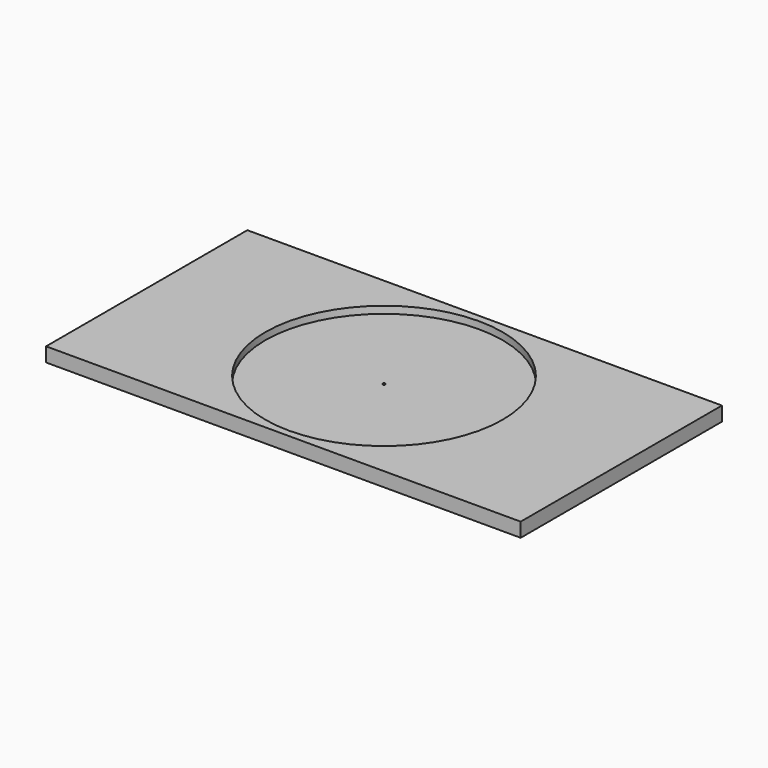
from build123d import *

# Parameters (mm, degrees)
F0_W      = 1000
F0_H      = 530
F1_DEPTH  = 30
F2_R      = 3
F3_DEPTH  = 12
F4_R      = 3
F5_DEPTH  = 12
F7_R      = 3
F8_DEPTH  = 12
F9_R      = 3
F10_DEPTH = 12
F6_R      = 250
F11_DEPTH = 15
F12_R     = 3
F13_DEPTH = 5
F14_R     = 3
F15_DEPTH = 12


with BuildPart() as f1:
    # F0 (on Top) → F1 (new body)
    with BuildSketch(Plane.XY):
        with Locations((500, 265)):
            Rectangle(F0_W, F0_H)
    extrude(amount=F1_DEPTH)

    # F2 (on face) → F3 (cut)
    with BuildSketch(Plane(origin=(0, 0, 0), x_dir=(1, 0, 0), z_dir=(0, 0, -1))):
        with Locations((985, -130)):
            Circle(F2_R)
    extrude(amount=-F3_DEPTH, mode=Mode.SUBTRACT)

    # F4 (on face) → F5 (cut)
    with BuildSketch(Plane(origin=(0, 0, 0), x_dir=(1, 0, 0), z_dir=(0, 0, -1))):
        with Locations((15, -130)):
            Circle(F4_R)
    extrude(amount=-F5_DEPTH, mode=Mode.SUBTRACT)

    # F7 (on face) → F8 (cut)
    with BuildSketch(Plane(origin=(0, 0, 0), x_dir=(1, 0, 0), z_dir=(0, 0, -1))):
        with Locations((985, -400)):
            Circle(F7_R)
    extrude(amount=-F8_DEPTH, mode=Mode.SUBTRACT)

    # F9 (on face) → F10 (cut)
    with BuildSketch(Plane(origin=(0, 0, 0), x_dir=(1, 0, 0), z_dir=(0, 0, -1))):
        with Locations((15, -400)):
            Circle(F9_R)
    extrude(amount=-F10_DEPTH, mode=Mode.SUBTRACT)

    # F6 (on face) → F11 (cut)
    with BuildSketch(Plane.XY.offset(30)):
        with Locations((500, 265)):
            Circle(F6_R)
    extrude(amount=-F11_DEPTH, mode=Mode.SUBTRACT)

    # F12 (on face) → F13 (cut)
    with BuildSketch(Plane.XY.offset(15)):
        with Locations((500, 265)):
            Circle(F12_R)
    extrude(amount=-F13_DEPTH, mode=Mode.SUBTRACT)

    # F14 (on face) → F15 (cut)
    with BuildSketch(Plane(origin=(0, 0, 0), x_dir=(1, 0, 0), z_dir=(0, 0, -1))):
        with Locations((500, -515)):
            Circle(F14_R)
    extrude(amount=-F15_DEPTH, mode=Mode.SUBTRACT)


solid = f1.part
